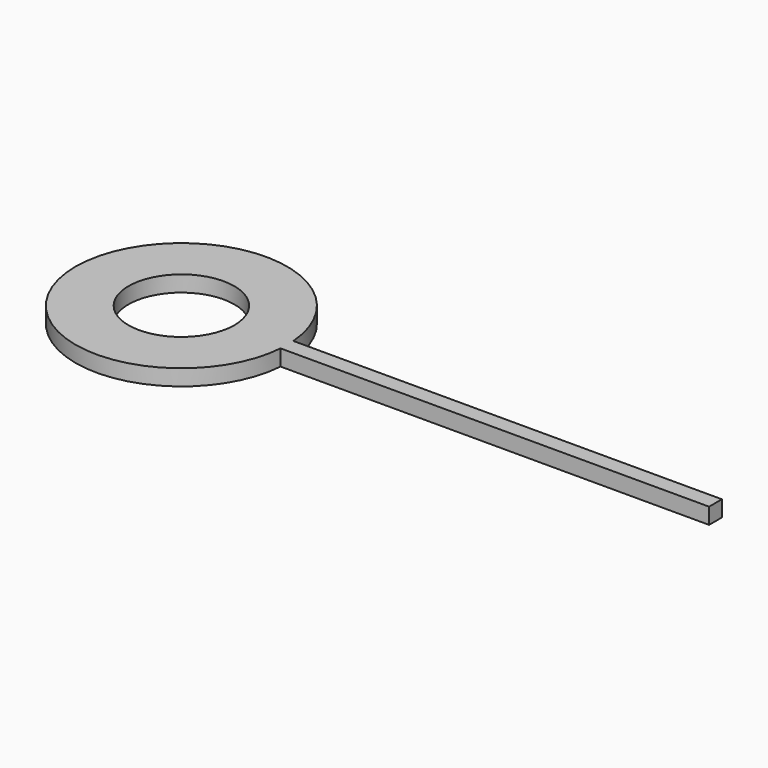
from build123d import *

# Parameters (mm, degrees)
F0_R     = 0.8382
F1_DEPTH = 0.254


with BuildPart() as f1:
    # F0 (on Top) → F1 (new body)
    with BuildSketch(Plane.XY):
        with BuildLine():
            Line((0, 0.127), (0, 0))
            Line((0, 0), (0.8333824718, 0))
            ThreePointArc((0.8333824718, 0), (0.836995185, 0.0634543302), (0.8382, 0.127))
            Line((0.8382, 0.127), (0, 0.127))
        make_face()
        with BuildLine():
            Line((0.8333824718, 0), (0, 0))
            Line((0, 0), (0, 0.127))
            Line((0, 0.127), (0, 0.254))
            Line((0, 0.254), (0.8333824718, 0.254))
            ThreePointArc((0.8333824718, 0.254), (-2.5146, 0.127), (0.8333824718, 0))
        make_face()
        with Locations((-0.8382, 0.127)):
            Circle(F0_R, mode=Mode.SUBTRACT)
        with BuildLine():
            ThreePointArc((0.8382, 0.127), (0.836995185, 0.0634543302), (0.8333824718, 0))
            Line((0.8333824718, 0), (7.62, 0))
            Line((7.62, 0), (7.62, 0.254))
            Line((7.62, 0.254), (0.8333824718, 0.254))
            ThreePointArc((0.8333824718, 0.254), (0.836995185, 0.1905456698), (0.8382, 0.127))
        make_face()
        with BuildLine():
            Line((0, 0.254), (0, 0.127))
            Line((0, 0.127), (0.8382, 0.127))
            ThreePointArc((0.8382, 0.127), (0.836995185, 0.1905456698), (0.8333824718, 0.254))
            Line((0.8333824718, 0.254), (0, 0.254))
        make_face()
    extrude(amount=F1_DEPTH)


solid = f1.part
